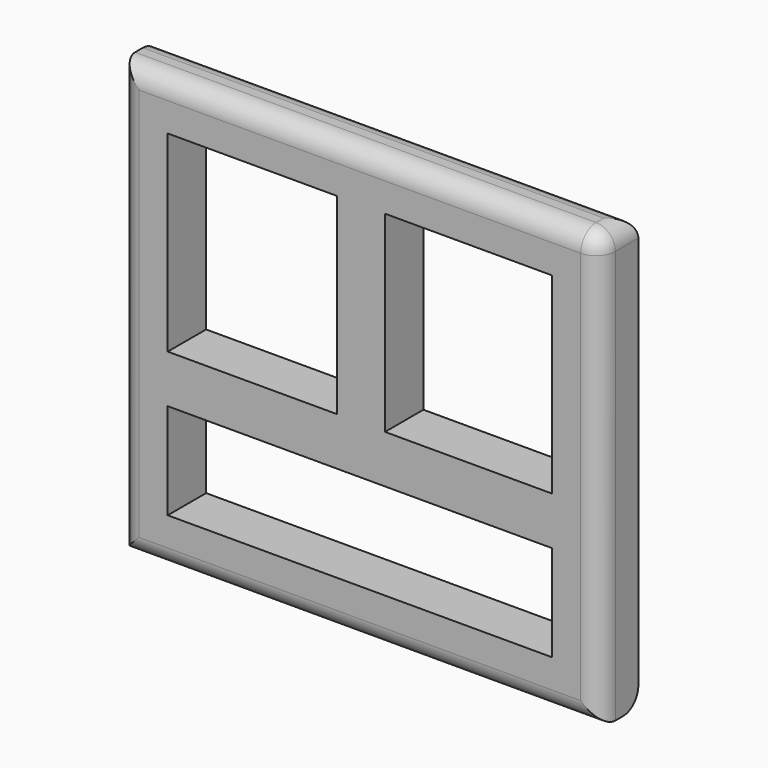
from build123d import *

# Parameters (mm, degrees)
F0_W     = 12.7
F0_H     = 50.8
F1_DEPTH = 12.7
F2_R     = 5.08


with BuildPart() as f1:
    # F0 (on Front) → F1 (new body)
    with BuildSketch(Plane.XZ):
        Polygon((-63.5, 25.4), (-63.5, -25.4), (63.5, -25.4), (63.5, 25.4), (63.5, 88.9), (-63.5, 88.9), align=None)
        Polygon((-50.8, 12.7), (-50.8, 25.4), (-50.8, 76.2), (-6.031548, 76.2), (6.668452, 76.2), (50.8, 76.2), (50.8, 25.4), (50.8, 12.7), (50.8, -12.7), (-50.8, -12.7), align=None, mode=Mode.SUBTRACT)
        Polygon((-6.031548, 25.4), (-50.8, 25.4), (-50.8, 12.7), (50.8, 12.7), (50.8, 25.4), (6.668452, 25.4), align=None)
        with Locations((0.318452, 50.8)):
            Rectangle(F0_W, F0_H)
    extrude(amount=F1_DEPTH)

    # F2
    f2_edges = [f1.edges().sort_by_distance(p)[0] for p in [
        (0, 0, 88.9),
        (0, 0, -25.4),
        (63.5, -12.7, 31.75),
        (63.5, -6.35, 88.9),
        (0, -12.7, 88.9),
        (-63.5, -12.7, 31.75),
        (0, -12.7, -25.4),
    ]]
    fillet(f2_edges, radius=F2_R)


solid = f1.part
